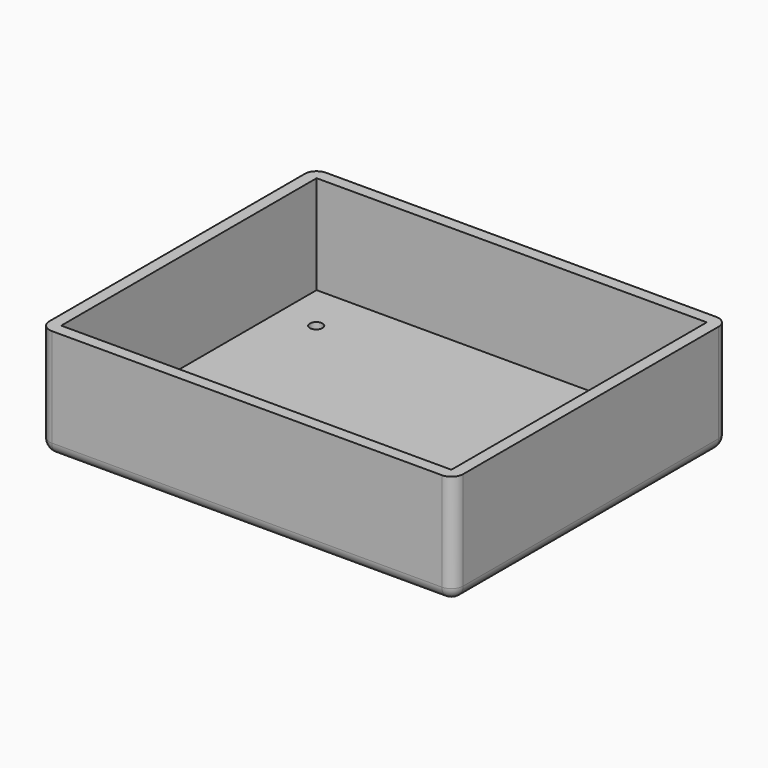
from build123d import *

# Parameters (mm, degrees)
SKETCH_W     = 99
SKETCH_H     = 81
PAD_DEPTH    = 25
THICKNESS_T  = 3
SKETCH004_R  = 1.6
POCKET_DEPTH = 40.001


with BuildPart() as part:
    # Sketch → Pad (new body)
    with BuildSketch(Plane.XY):
        with Locations((20, -91.5)):
            Rectangle(SKETCH_W, SKETCH_H)
    extrude(amount=PAD_DEPTH)

    # Thickness
    thickness_openings = [part.faces().sort_by_distance(p)[0] for p in [
        (20, -91.5, 25),
    ]]
    offset(amount=THICKNESS_T, openings=thickness_openings)

    # Sketch004 (on Part__Feature) → Pocket (cut, through all)
    with BuildSketch(Plane(origin=(-200, 0, 37), x_dir=(1, 0, 0), z_dir=(0, 0, 1))):
        with Locations((180, -63)):
            Circle(SKETCH004_R)
        with Locations((254, -124)):
            Circle(SKETCH004_R)
    extrude(amount=-POCKET_DEPTH, mode=Mode.SUBTRACT)


solid = part.part
